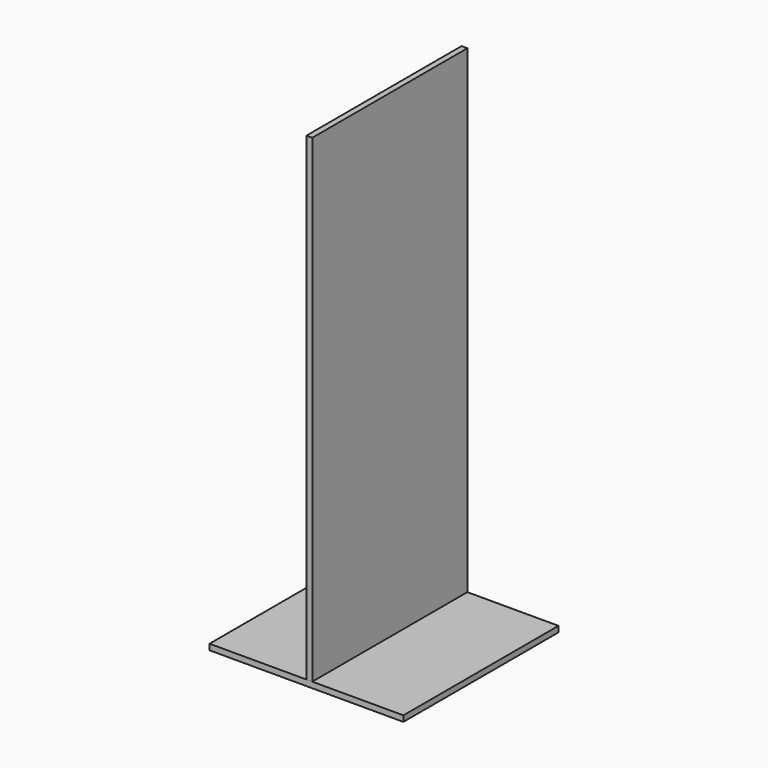
from build123d import *

# Parameters (mm, degrees)
SKETCH001_W  = 1000
SKETCH001_H  = 2500
PAD_DEPTH    = 30
SKETCH002_W  = 1000
SKETCH002_H  = 1000
PAD001_DEPTH = 30


with BuildPart() as sidebody:
    # Sketch001 → Pad (new body)
    with BuildSketch(Plane.YZ):
        with Locations((0, 1250)):
            Rectangle(SKETCH001_W, SKETCH001_H)
    extrude(amount=PAD_DEPTH)


with BuildPart() as shelfbody:
    # Sketch002 → Pad001 (new body)
    with BuildSketch(Plane.XY):
        Rectangle(SKETCH002_W, SKETCH002_H)
    extrude(amount=PAD001_DEPTH)


solid = Compound([sidebody.part, shelfbody.part])
